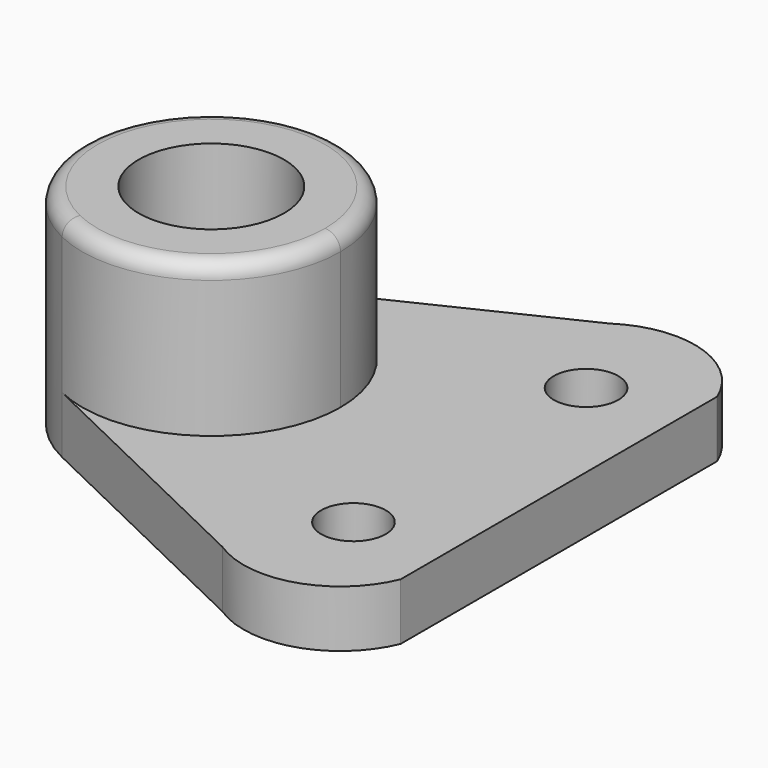
from build123d import *

# Parameters (mm, degrees)
F0_R     = 6.35
F1_DEPTH = 11.176
F0_R_2   = 14.2875
F2_DEPTH = 41.148
F3_R     = 3.048


with BuildPart() as f1:
    # F0 (on Top) → F1 (new body)
    with BuildSketch(Plane.XY):
        with BuildLine():
            ThreePointArc((-11.017324, 22.886209), (13.515176, 21.505813), (25.4, 0))
            ThreePointArc((25.4, 0), (13.515176, -21.505813), (-11.017324, -22.886209))
            Line((-11.017324, -22.886209), (40.256642, -47.569279))
            ThreePointArc((40.256642, -47.569279), (56.337591, -49.833259), (68.321377, -38.873725))
            Line((68.321377, -38.873725), (68.321377, 0))
            Line((68.321377, 0), (68.321377, 38.873725))
            ThreePointArc((68.321377, 38.873725), (56.337591, 49.833259), (40.256642, 47.569279))
            Line((40.256642, 47.569279), (-11.017324, 22.886209))
        make_face()
        with Locations((50.8, -28.575)):
            Circle(F0_R, mode=Mode.SUBTRACT)
        with Locations((50.8, 28.575)):
            Circle(F0_R, mode=Mode.SUBTRACT)
    extrude(amount=F1_DEPTH)

    # F0 (on Top) → F2 (join)
    with BuildSketch(Plane.XY):
        with BuildLine():
            ThreePointArc((-11.017324, -22.886209), (13.515176, -21.505813), (25.4, 0))
            ThreePointArc((25.4, 0), (13.515176, 21.505813), (-11.017324, 22.886209))
            ThreePointArc((-11.017324, 22.886209), (-25.4, 0), (-11.017324, -22.886209))
        make_face()
        Circle(F0_R_2, mode=Mode.SUBTRACT)
    extrude(amount=F2_DEPTH)

    # F3
    f3_edges = [f1.edges().sort_by_distance(p)[0] for p in [
        (11.017324, -22.886209, 41.148),
    ]]
    fillet(f3_edges, radius=F3_R)


solid = f1.part
